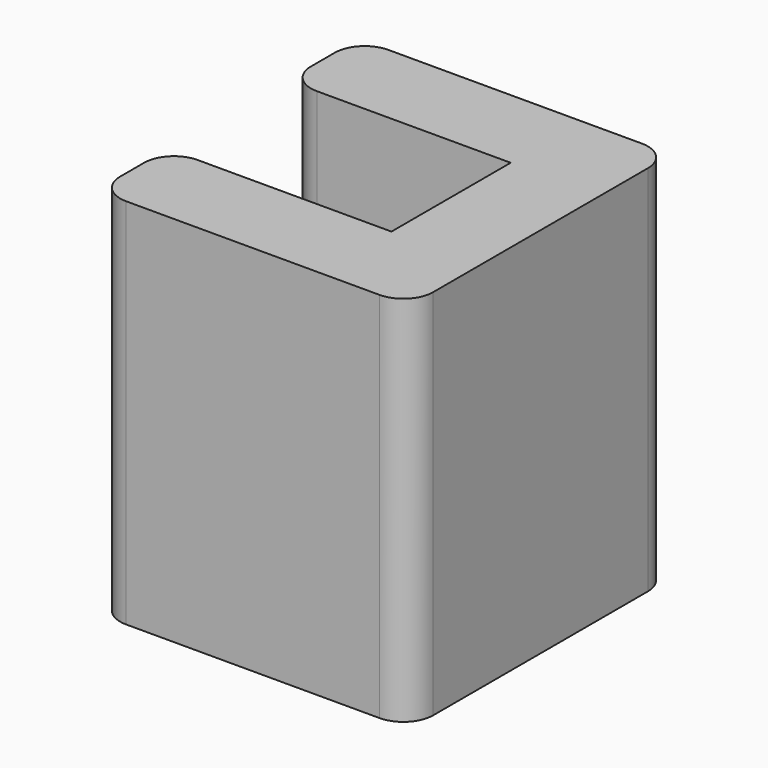
from build123d import *

# Parameters (mm, degrees)
F0_W     = 1.524
F0_H     = 2.54
F1_DEPTH = 6.35
F2_R     = 0.508


with BuildPart() as f1:
    # F0 (on Top) → F1 (new body)
    with BuildSketch(Plane.XY):
        Polygon((3.81, 4.064), (5.334, 4.064), (5.334, 5.588), (0, 5.588), (0, 4.064), align=None)
        with Locations((4.572, 2.794)):
            Rectangle(F0_W, F0_H)
        Polygon((0, 1.524), (0, 0), (5.334, 0), (5.334, 1.524), (3.81, 1.524), align=None)
    extrude(amount=F1_DEPTH)

    # F2
    f2_edges = [f1.edges().sort_by_distance(p)[0] for p in [
        (0, 4.064, 3.175),
        (0, 5.588, 3.175),
        (0, 1.524, 3.175),
        (0, 0, 3.175),
        (5.334, 0, 3.175),
        (5.334, 5.588, 3.175),
    ]]
    fillet(f2_edges, radius=F2_R)


solid = f1.part
